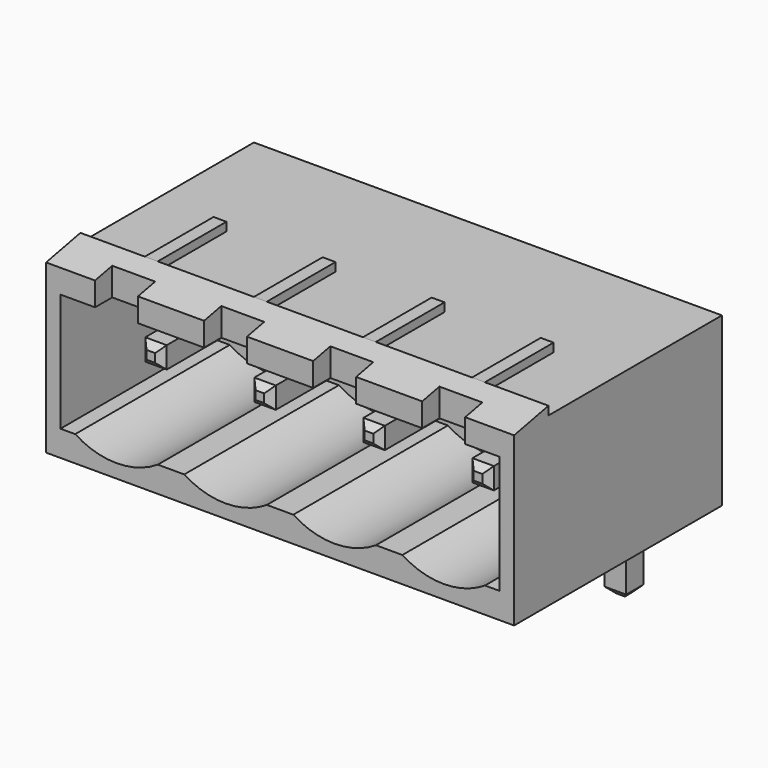
from build123d import *

# Parameters (mm, degrees)
F0_W       = 21.8
F0_H       = 8.2
F1_DEPTH   = 6.05
F3_DEPTH   = 9
F4_W       = 1
F4_H       = 1
F5_DEPTH   = 7
F6_W       = 1
F6_H       = 1
F7_DEPTH   = 4
F8_W       = 2
F8_H       = 1
F9_DEPTH   = 2
F10_W      = 20.46
F10_H      = 0.5
F11_DEPTH  = 9
F12_SIZE   = 0.3
F12_2_SIZE = 0.3
F13_W      = 10.1
F13_H      = 0.4
F14_DEPTH  = 21.801
F15_W      = 0.6
F15_H      = 4
F16_DEPTH  = 0.4


with BuildPart() as f1:
    # F0 (on Front) → F1 (new body, symmetric)
    with BuildSketch(Plane.XZ):
        Rectangle(F0_W, F0_H)
    extrude(amount=F1_DEPTH, both=True)

    # F2 (on face) → F3 (cut)
    with BuildSketch(Plane.XZ.offset(6.05)):
        with BuildLine():
            Line((10.23, 2.6), (-10.23, 2.6))
            Line((-10.23, 2.6), (-10.23, -2.4))
            Line((-10.23, -2.4), (-10.16, -2.4))
            ThreePointArc((-10.16, -2.4), (-7.62, -3.46393), (-5.08, -2.4))
            ThreePointArc((-5.08, -2.4), (-2.54, -3.46393), (0, -2.4))
            ThreePointArc((0, -2.4), (2.54, -3.46393), (5.08, -2.4))
            ThreePointArc((5.08, -2.4), (7.62, -3.46393), (10.16, -2.4))
            Line((10.16, -2.4), (10.23, -2.4))
            Line((10.23, -2.4), (10.23, 2.6))
        make_face()
    extrude(amount=-F3_DEPTH, mode=Mode.SUBTRACT)

    # F8 (on face) → F9 (cut)
    with BuildSketch(Plane.XY.offset(4.1)):
        with Locations((-2.54, -5.55)):
            Rectangle(F8_W, F8_H)
        with Locations((2.54, -5.55)):
            Rectangle(F8_W, F8_H)
        with Locations((7.62, -5.55)):
            Rectangle(F8_W, F8_H)
        with Locations((-7.62, -5.55)):
            Rectangle(F8_W, F8_H)
    extrude(amount=-F9_DEPTH, mode=Mode.SUBTRACT)

    # F10 (on face) → F11 (cut, through all)
    with BuildSketch(Plane.XZ.offset(6.05)):
        with Locations((0, -2.65)):
            Rectangle(F10_W, F10_H)
    extrude(amount=-F11_DEPTH, mode=Mode.SUBTRACT)

    # F13 (on face) → F14 (cut, through all)
    with BuildSketch(Plane.YZ.offset(10.9)):
        Polygon((-4.05, 4.1), (-6.05, 4.1), (-6.05, 3.7), align=None)
        with Locations((1, 3.9)):
            Rectangle(F13_W, F13_H)
    extrude(amount=-F14_DEPTH, mode=Mode.SUBTRACT)

    # F15 (on face) → F16 (join)
    with BuildSketch(Plane.XY.offset(3.7)):
        with Locations((-7.6, -2.05)):
            Rectangle(F15_W, F15_H)
        with Locations((-2.52, -2.05)):
            Rectangle(F15_W, F15_H)
        with Locations((2.56, -2.05)):
            Rectangle(F15_W, F15_H)
        with Locations((7.64, -2.05)):
            Rectangle(F15_W, F15_H)
    extrude(amount=F16_DEPTH)


with BuildPart() as f5:
    # F4 (on face) → F5 (new body)
    with BuildSketch(Plane.XZ.offset(-2.95)):
        with Locations((-7.62, 0.1)):
            Rectangle(F4_W, F4_H)
        with Locations((-2.54, 0.1)):
            Rectangle(F4_W, F4_H)
        with Locations((2.54, 0.1)):
            Rectangle(F4_W, F4_H)
        with Locations((7.62, 0.1)):
            Rectangle(F4_W, F4_H)
    extrude(amount=F5_DEPTH)

    # F12
    f12_edges = [f5.edges().sort_by_distance(p)[0] for p in [
        (-7.62, -4.05, -0.4),
        (-7.12, -4.05, 0.1),
        (-7.62, -4.05, 0.6),
        (-8.12, -4.05, 0.1),
        (-2.54, -4.05, -0.4),
        (-2.04, -4.05, 0.1),
        (-2.54, -4.05, 0.6),
        (-3.04, -4.05, 0.1),
        (2.54, -4.05, -0.4),
        (3.04, -4.05, 0.1),
        (2.54, -4.05, 0.6),
        (2.04, -4.05, 0.1),
        (7.62, -4.05, -0.4),
        (8.12, -4.05, 0.1),
        (7.62, -4.05, 0.6),
        (7.12, -4.05, 0.1),
    ]]
    chamfer(f12_edges, length=F12_SIZE)


with BuildPart() as f7:
    # F6 (on face) → F7 (new body)
    with BuildSketch(Plane(origin=(0, 0, -4.1), x_dir=(1, 0, 0), z_dir=(0, 0, -1))):
        with Locations((-7.62, -4.45)):
            Rectangle(F6_W, F6_H)
        with Locations((-2.54, -4.45)):
            Rectangle(F6_W, F6_H)
        with Locations((7.62, -4.45)):
            Rectangle(F6_W, F6_H)
        with Locations((2.54, -4.45)):
            Rectangle(F6_W, F6_H)
    extrude(amount=F7_DEPTH)

    # F12#2
    f12_2_edges = [f7.edges().sort_by_distance(p)[0] for p in [
        (-7.62, 3.95, -8.1),
        (-8.12, 4.45, -8.1),
        (-7.62, 4.95, -8.1),
        (-7.12, 4.45, -8.1),
        (-2.54, 3.95, -8.1),
        (-3.04, 4.45, -8.1),
        (-2.54, 4.95, -8.1),
        (-2.04, 4.45, -8.1),
        (3.04, 4.45, -8.1),
        (2.54, 3.95, -8.1),
        (2.04, 4.45, -8.1),
        (2.54, 4.95, -8.1),
        (8.12, 4.45, -8.1),
        (7.62, 3.95, -8.1),
        (7.12, 4.45, -8.1),
        (7.62, 4.95, -8.1),
    ]]
    chamfer(f12_2_edges, length=F12_2_SIZE)


solid = Compound([f1.part, f5.part, f7.part])
